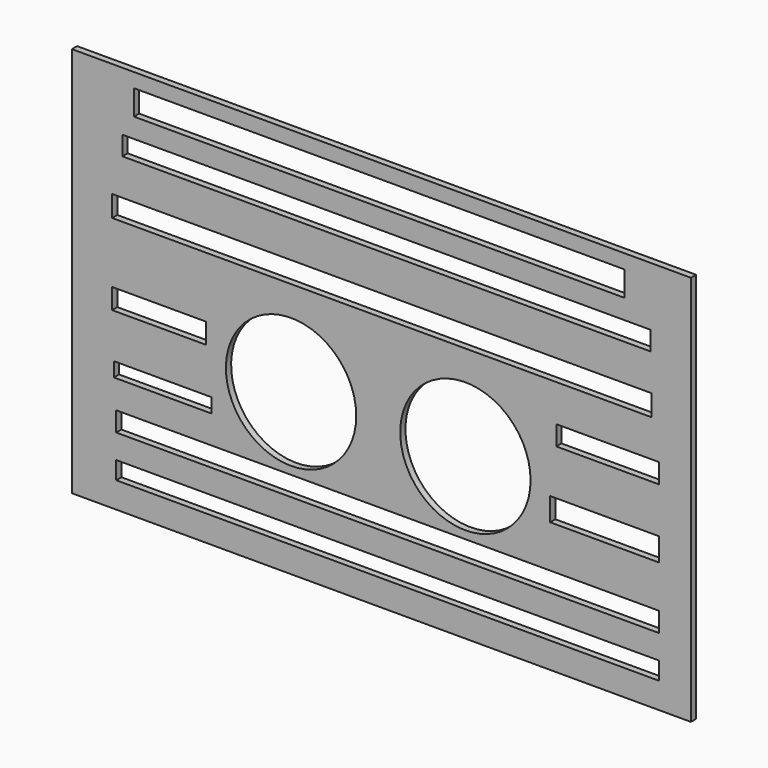
from build123d import *

# Parameters (mm, degrees)
F0_W     = 241.3
F0_H     = 152.4
F0_W_2   = 37.9902869463
F0_H_2   = 5.6053395383
F0_W_3   = 36.6508215666
F0_H_3   = 7.95059558
F0_W_4   = 211.6373926401
F0_H_4   = 6.9365315139
F0_H_5   = 7.6421592385
F0_R     = 25.4
F0_W_5   = 42.5071567297
F0_H_6   = 9.0162698179
F0_W_6   = 191.1512501538
F0_H_7   = 9.7504556179
F0_W_7   = 210.2212160826
F0_H_8   = 8.2425475121
F0_W_8   = 40.1230640709
F0_H_9   = 7.6498966664
F0_W_9   = 205.9216275811
F0_H_10  = 7.4272975326
F1_DEPTH = 2.54
F2_DEPTH = 2.54


with BuildPart() as f1:
    # F0 (on Front) → F1 (new body)
    with BuildSketch(Plane.XZ):
        with Locations((-32.7406, 25.5445336595)):
            Rectangle(F0_W, F0_H)
        with Locations((-118.0223450065, -2.8026697692)):
            Rectangle(F0_W_2, F0_H_2, mode=Mode.SUBTRACT)
        with Locations((-119.3700358272, 21.258618217)):
            Rectangle(F0_W_3, F0_H_3, mode=Mode.SUBTRACT)
        with BuildLine():
            ThreePointArc((-86.0117226839, 29.7584036313), (-58.2944755627, 35.3999965456), (-42.545, 11.9047336595))
            ThreePointArc((-42.545, 11.9047336595), (-77.5955244373, -11.5905292266), (-86.0117226839, 29.7584036313))
        make_face(mode=Mode.SUBTRACT)
        with Locations((-30.2752777934, -37.1060613543)):
            Rectangle(F0_W_4, F0_H_4, mode=Mode.SUBTRACT)
        with Locations((-30.2752777934, -20.3857226297)):
            Rectangle(F0_W_4, F0_H_5, mode=Mode.SUBTRACT)
        with Locations((0, 11.9047336595)):
            Circle(F0_R, mode=Mode.SUBTRACT)
        with Locations((54.2898401618, 4.508134909)):
            Rectangle(F0_W_5, F0_H_6, mode=Mode.SUBTRACT)
        with Locations((-33.6216446012, 91.3200601935)):
            Rectangle(F0_W_6, F0_H_7, mode=Mode.SUBTRACT)
        with Locations((-32.5848385692, 53.0171841383)):
            Rectangle(F0_W_7, F0_H_8, mode=Mode.SUBTRACT)
        with Locations((55.4818864912, 30.6309619918)):
            Rectangle(F0_W_8, F0_H_9, mode=Mode.SUBTRACT)
        with Locations((-30.7491086423, 75.0639848411)):
            Rectangle(F0_W_9, F0_H_10, mode=Mode.SUBTRACT)
        with Locations((-32.7406, 25.5445336595)):
            Rectangle(F0_W, F0_H)
        with Locations((-118.0223450065, -2.8026697692)):
            Rectangle(F0_W_2, F0_H_2, mode=Mode.SUBTRACT)
        with Locations((-119.3700358272, 21.258618217)):
            Rectangle(F0_W_3, F0_H_3, mode=Mode.SUBTRACT)
        with BuildLine():
            ThreePointArc((-86.0117226839, 29.7584036313), (-58.2944755627, 35.3999965456), (-42.545, 11.9047336595))
            ThreePointArc((-42.545, 11.9047336595), (-77.5955244373, -11.5905292266), (-86.0117226839, 29.7584036313))
        make_face(mode=Mode.SUBTRACT)
        with Locations((-30.2752777934, -37.1060613543)):
            Rectangle(F0_W_4, F0_H_4, mode=Mode.SUBTRACT)
        with Locations((-30.2752777934, -20.3857226297)):
            Rectangle(F0_W_4, F0_H_5, mode=Mode.SUBTRACT)
        with Locations((0, 11.9047336595)):
            Circle(F0_R, mode=Mode.SUBTRACT)
        with Locations((54.2898401618, 4.508134909)):
            Rectangle(F0_W_5, F0_H_6, mode=Mode.SUBTRACT)
        with Locations((-33.6216446012, 91.3200601935)):
            Rectangle(F0_W_6, F0_H_7, mode=Mode.SUBTRACT)
        with Locations((-32.5848385692, 53.0171841383)):
            Rectangle(F0_W_7, F0_H_8, mode=Mode.SUBTRACT)
        with Locations((55.4818864912, 30.6309619918)):
            Rectangle(F0_W_8, F0_H_9, mode=Mode.SUBTRACT)
        with Locations((-30.7491086423, 75.0639848411)):
            Rectangle(F0_W_9, F0_H_10, mode=Mode.SUBTRACT)
    extrude(amount=F1_DEPTH)

    # F0 (on Front) → F2 (join)
    with BuildSketch(Plane.XZ):
        with Locations((-32.7406, 25.5445336595)):
            Rectangle(F0_W, F0_H)
        with Locations((-118.0223450065, -2.8026697692)):
            Rectangle(F0_W_2, F0_H_2, mode=Mode.SUBTRACT)
        with Locations((-119.3700358272, 21.258618217)):
            Rectangle(F0_W_3, F0_H_3, mode=Mode.SUBTRACT)
        with BuildLine():
            ThreePointArc((-86.0117226839, 29.7584036313), (-58.2944755627, 35.3999965456), (-42.545, 11.9047336595))
            ThreePointArc((-42.545, 11.9047336595), (-77.5955244373, -11.5905292266), (-86.0117226839, 29.7584036313))
        make_face(mode=Mode.SUBTRACT)
        with Locations((-30.2752777934, -37.1060613543)):
            Rectangle(F0_W_4, F0_H_4, mode=Mode.SUBTRACT)
        with Locations((-30.2752777934, -20.3857226297)):
            Rectangle(F0_W_4, F0_H_5, mode=Mode.SUBTRACT)
        with Locations((0, 11.9047336595)):
            Circle(F0_R, mode=Mode.SUBTRACT)
        with Locations((54.2898401618, 4.508134909)):
            Rectangle(F0_W_5, F0_H_6, mode=Mode.SUBTRACT)
        with Locations((-33.6216446012, 91.3200601935)):
            Rectangle(F0_W_6, F0_H_7, mode=Mode.SUBTRACT)
        with Locations((-32.5848385692, 53.0171841383)):
            Rectangle(F0_W_7, F0_H_8, mode=Mode.SUBTRACT)
        with Locations((55.4818864912, 30.6309619918)):
            Rectangle(F0_W_8, F0_H_9, mode=Mode.SUBTRACT)
        with Locations((-30.7491086423, 75.0639848411)):
            Rectangle(F0_W_9, F0_H_10, mode=Mode.SUBTRACT)
    extrude(amount=F2_DEPTH)


solid = f1.part
